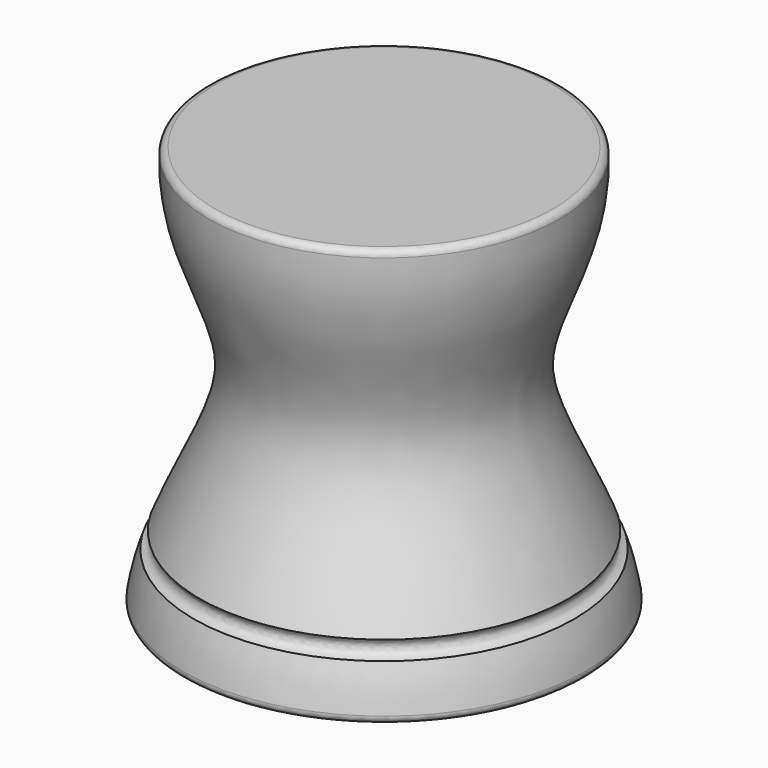
from build123d import *

# Parameters (mm, degrees)
F2_R = 1


with BuildPart() as f1:
    # F0 (on Front) → F1 (revolve)
    with BuildSketch(Plane.XZ):
        with BuildLine():
            Line((0, 60), (0, 0))
            Line((0, 0), (30, 0))
            add(Edge.make_bspline(
                [(28.2535254993, 7.4922008709), (29.0816434848, 5.0699046184), (29.7187862843, 2.574555397), (30, 0)],
                knots=[0.8886979492, 0.8886979492, 0.8886979492, 0.8886979492, 1, 1, 1, 1], degree=3))
            add(Edge.make_bspline(
                [(27.3844158402, 9.8483805683), (26.8197469413, 9.1423625126), (27.0079453522, 8.3347235095), (27.3216242156, 7.7327615612), (28.2535254993, 7.4922008709)],
                knots=[0, 0, 0, 0, 0.4994359661, 1, 1, 1, 1], degree=3))
            add(Edge.make_bspline(
                [(26, 60), (26.8353273245, 47.4700901322), (13.7029216022, 34.0503572985), (24.311282728, 17.6506935674), (27.3844158402, 9.8483805683)],
                knots=[0, 0, 0, 0, 0.4866233196, 0.8522533436, 0.8522533436, 0.8522533436, 0.8522533436], degree=3))
            Line((26, 60), (0, 60))
        make_face()
    revolve(axis=Axis((0, 0, 30), (0, 0, -1)))

    # F2
    f2_edges = [f1.edges().sort_by_distance(p)[0] for p in [
        (-26, 0, 60),
        (-30, 0, 0),
    ]]
    fillet(f2_edges, radius=F2_R)


solid = f1.part
